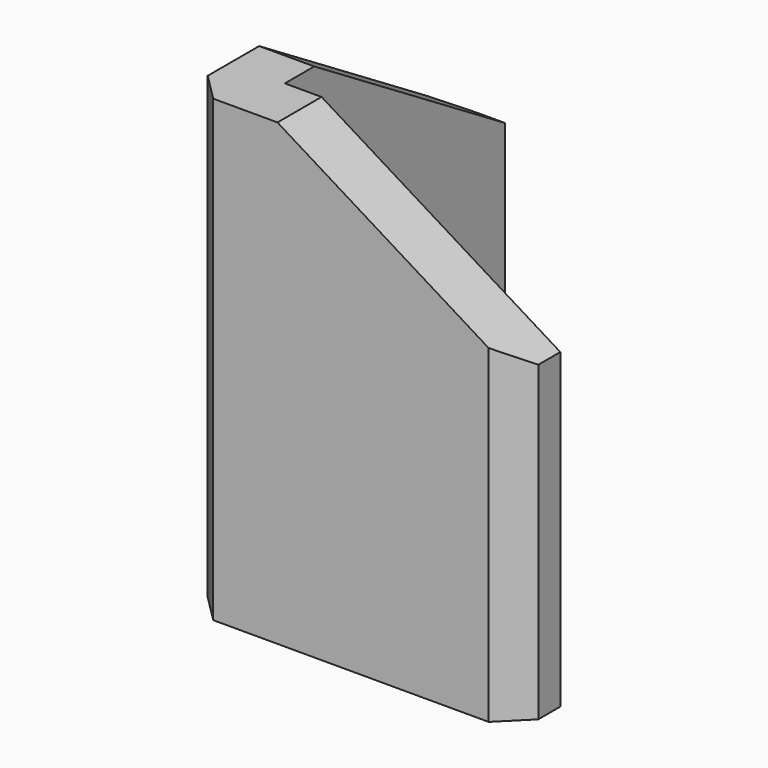
from build123d import *

# Parameters (mm, degrees)
F1_DEPTH = 25
F2_SIZE2 = 13
F2_SIZE  = 8
F3_SIZE  = 1.5


with BuildPart() as f1:
    # F0 (on Top) → F1 (new body)
    with BuildSketch(Plane.XY):
        Polygon((0, 18), (0, 0), (18, 0), (18, 3), (3, 3), (3, 18), align=None)
    extrude(amount=F1_DEPTH)

    # F2
    f2_edges = [f1.edges().sort_by_distance(p)[0] for p in [
        (1.5, 18, 25),
        (18, 1.5, 25),
    ]]
    chamfer(f2_edges, length=F2_SIZE, length2=F2_SIZE2)

    # F3
    f3_edges = [f1.edges().sort_by_distance(p)[0] for p in [
        (0, 18, 8.5),
        (0, 0, 12.5),
        (18, 0, 8.5),
    ]]
    chamfer(f3_edges, length=F3_SIZE)


solid = f1.part
